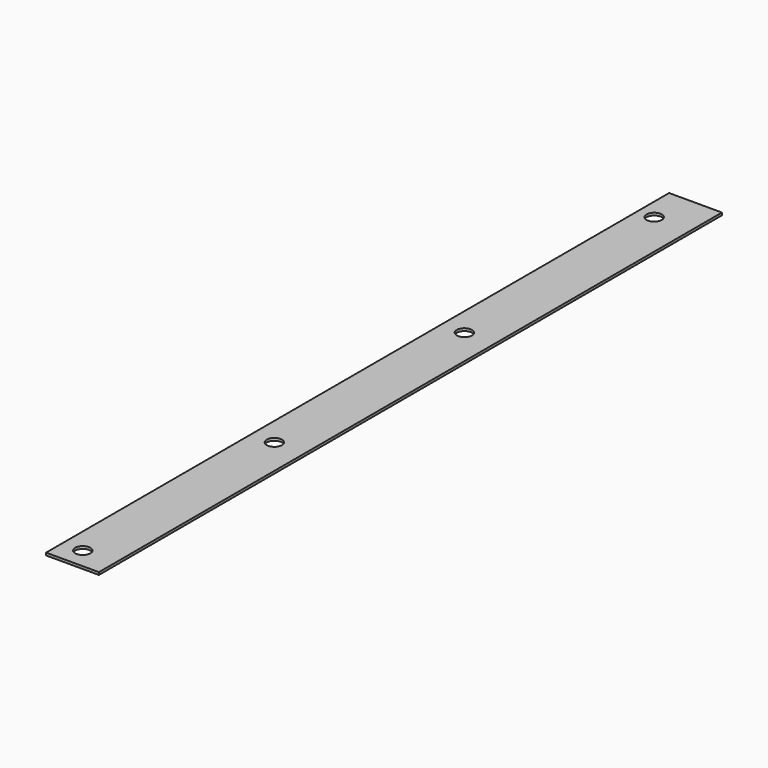
from build123d import *

# Parameters (mm, degrees)
SKETCH_W  = 20.904542
SKETCH_H  = 308.174771
SKETCH_R  = 3
PAD_DEPTH = 1


with BuildPart() as part:
    # Sketch → Pad (new body)
    with BuildSketch(Plane.XY):
        with Locations((1.452271, 144.5833)):
            Rectangle(SKETCH_W, SKETCH_H)
        with Locations((-1, -1.334074)):
            Circle(SKETCH_R, mode=Mode.SUBTRACT)
        with Locations((0, 92.165926)):
            Circle(SKETCH_R, mode=Mode.SUBTRACT)
        with Locations((0, 186.165926)):
            Circle(SKETCH_R, mode=Mode.SUBTRACT)
        with Locations((-2.5, 283.165926)):
            Circle(SKETCH_R, mode=Mode.SUBTRACT)
    extrude(amount=PAD_DEPTH)


solid = part.part
